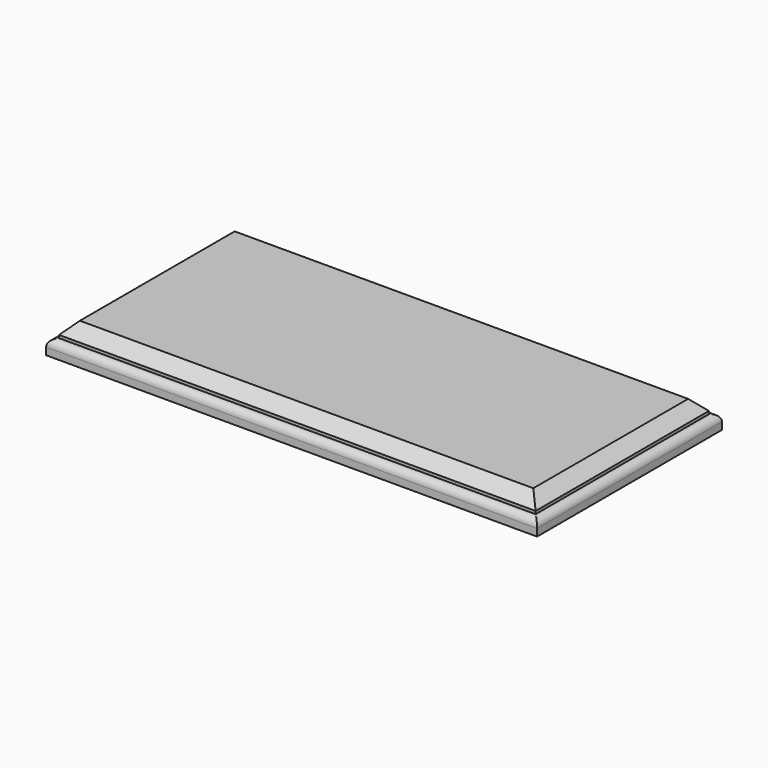
from build123d import *

# Parameters (mm, degrees)
F0_W     = 215.9
F0_H     = 101.6
F1_DEPTH = 6.35
F2_R     = 3.175
F3_DEPTH = 6.35
F4_SIZE  = 5.08


with BuildPart() as f1:
    # F0 (on Top) → F1 (new body)
    with BuildSketch(Plane.XY):
        with Locations((-16.8649114484, -0.8375608661)):
            Rectangle(F0_W, F0_H)
    extrude(amount=F1_DEPTH)

    # F2
    f2_edges = [f1.edges().sort_by_distance(p)[0] for p in [
        (-16.864911, -51.637561, 6.35),
        (91.085089, -0.837561, 6.35),
        (-16.864911, 49.962439, 6.35),
        (-124.814911, -0.837561, 6.35),
    ]]
    fillet(f2_edges, radius=F2_R)

    # F3 (add): a face of the model
    f3_faces = [f1.faces().sort_by_distance(p)[0] for p in [
        (-16.8649114484, -0.8375608661, 6.35),
    ]]
    extrude(f3_faces, amount=F3_DEPTH)

    # F4
    f4_edges = [f1.edges().sort_by_distance(p)[0] for p in [
        (-16.864911, -48.462561, 12.7),
        (-121.639911, -0.837561, 12.7),
        (87.910089, -0.837561, 12.7),
        (-16.864911, 46.787439, 12.7),
    ]]
    chamfer(f4_edges, length=F4_SIZE)


solid = f1.part
